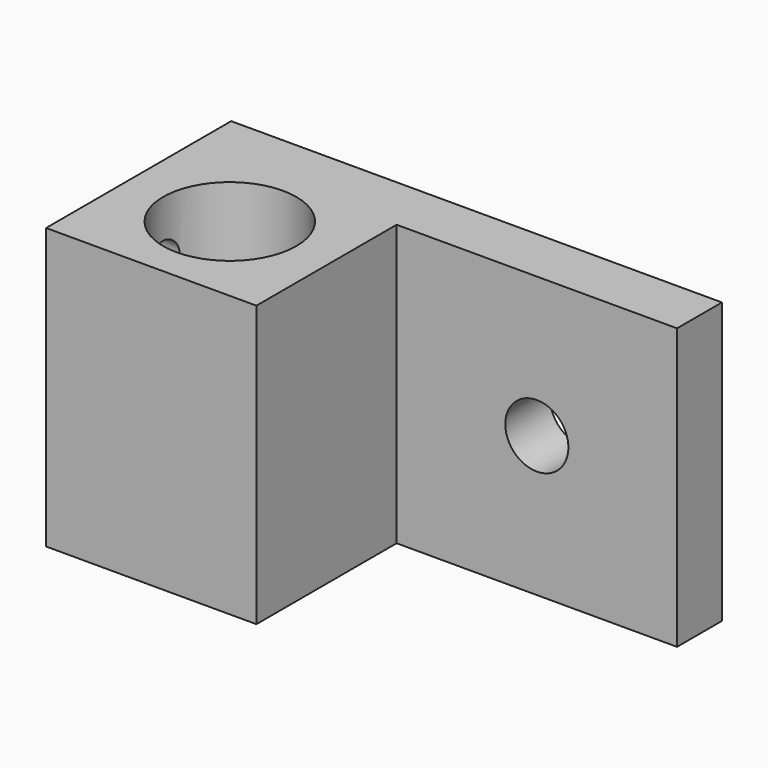
from build123d import *

# Parameters (mm, degrees)
F0_W     = 70
F0_H     = 40
F1_DEPTH = 8
F2_W     = 30
F2_H     = 40
F3_DEPTH = 25
F4_R     = 9.5
F5_DEPTH = 40
F7_D     = 5
F7_DEPTH = 15
F7_TIP   = 1.5021515476
F9_D     = 9
F9_DEPTH = 15
F9_TIP   = 2.7038727856


with BuildPart() as f1:
    # F0 (on Front) → F1 (new body)
    with BuildSketch(Plane.XZ):
        with Locations((35, 20)):
            Rectangle(F0_W, F0_H)
    extrude(amount=F1_DEPTH)

    # F2 (on face) → F3 (join)
    with BuildSketch(Plane.XZ.offset(8)):
        with Locations((15, 20)):
            Rectangle(F2_W, F2_H)
    extrude(amount=F3_DEPTH)

    # F4 (on face) → F5 (cut)
    with BuildSketch(Plane(origin=(0, 0, 0), x_dir=(1, 0, 0), z_dir=(0, 0, -1))):
        with Locations((15, 19)):
            Circle(F4_R)
    extrude(amount=-F5_DEPTH, mode=Mode.SUBTRACT)

    # F7
    with Locations(Plane(origin=(0, 0, 0), x_dir=(0, -1, 0), z_dir=(-1, 0, 0))):
        with Locations((19, 32), (19, 8)):
            Hole(F7_D / 2, depth=F7_DEPTH)
            with Locations((0, 0, -(F7_DEPTH + F7_TIP / 2))):  # 118° drill point
                Cone(0, F7_D / 2, F7_TIP, mode=Mode.SUBTRACT)

    # F9
    with Locations(Plane.XZ.offset(8)):
        with Locations((50, 20)):
            Hole(F9_D / 2, depth=F9_DEPTH)
            with Locations((0, 0, -(F9_DEPTH + F9_TIP / 2))):  # 118° drill point
                Cone(0, F9_D / 2, F9_TIP, mode=Mode.SUBTRACT)


solid = f1.part
